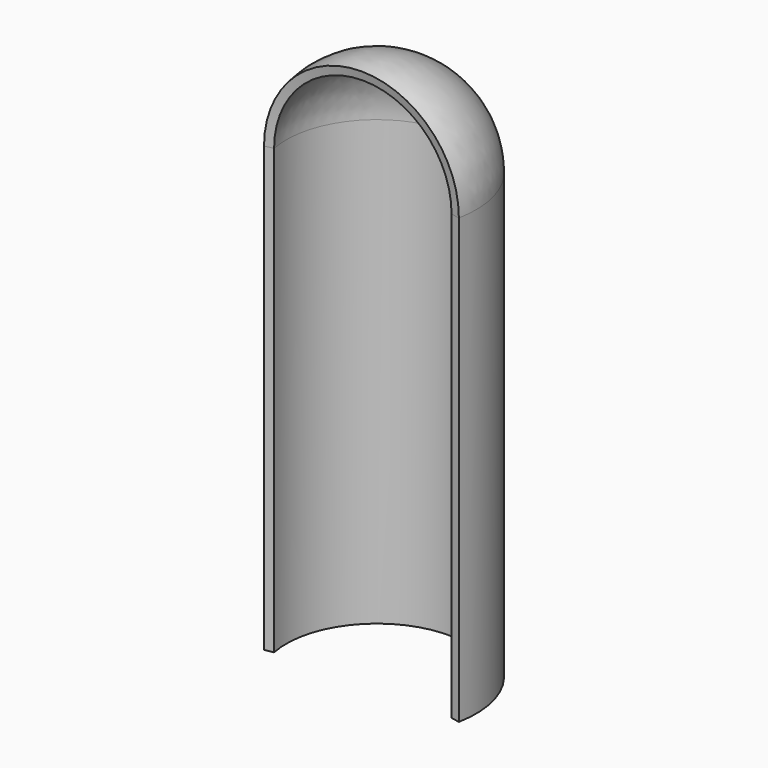
from build123d import *

# Parameters (mm, degrees)
F1_DEPTH = 100
F3_ANGLE = 180


with BuildPart() as f1:
    # F0 (on Top) → F1 (new body)
    with BuildSketch(Plane.XY):
        with BuildLine():
            ThreePointArc((0, 0), (20, 24.330106), (40, 0))
            Line((40, 0), (41.962196, -0.387022))
            ThreePointArc((41.962196, -0.387022), (20, 26.330106), (-1.962196, -0.387022))
            Line((-1.962196, -0.387022), (0, 0))
        make_face()
    extrude(amount=F1_DEPTH)

    # F2 (on face) → F3 (revolve)
    with BuildSketch(Plane.XY.offset(100)):
        with BuildLine():
            ThreePointArc((0, 0), (4.252349, 16.889776), (20, 24.330106))
            Line((20, 24.330106), (20, 26.330106))
            ThreePointArc((20, 26.330106), (2.70735, 18.159807), (-1.962196, -0.387022))
            Line((-1.962196, -0.387022), (0, 0))
        make_face()
    revolve(axis=Axis((20, 13.165053, 100), (0, 1, 0)), revolution_arc=F3_ANGLE)


solid = f1.part
